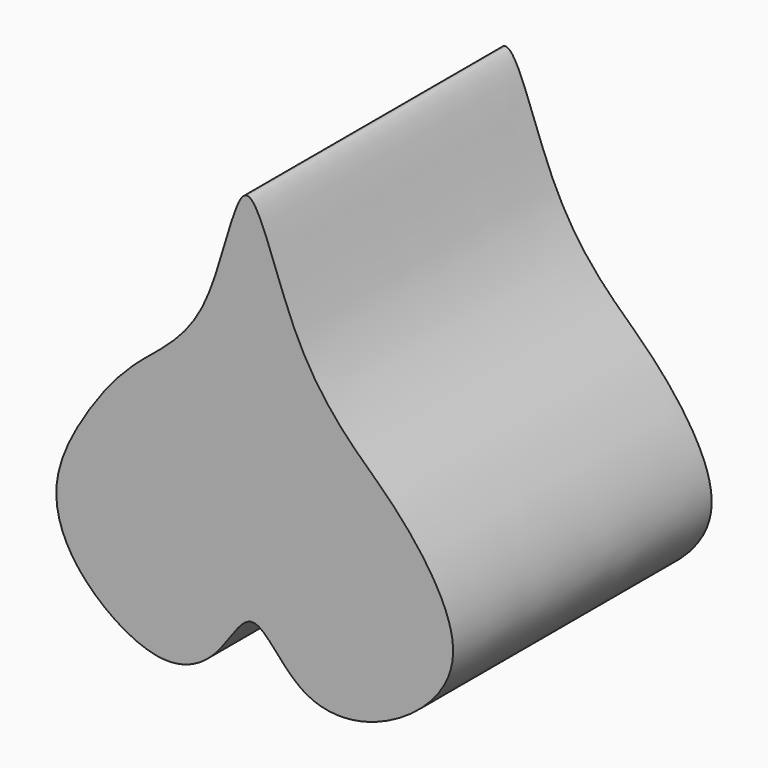
from build123d import *

# Parameters (mm, degrees)
F1_DEPTH = 2


with BuildPart() as f1:
    # F0 (on Front) → F1 (new body)
    with BuildSketch(Plane.XZ):
        with BuildLine():
            add(Edge.make_bspline(
                [(7.6541043818, 7.9737510532), (7.5737082016, 7.9624785716), (7.4551231094, 7.1658634311), (6.96093713, 6.8724758556), (6.6404656801, 6.4571754762), (6.416024624, 6.0050935564), (6.5809726383, 5.5533538035), (7.1138820679, 5.194278457), (7.4884278744, 5.3763510762), (7.6902948875, 5.8163475318), (7.9724745665, 5.2823308892), (8.5552124707, 5.3240347945), (9.1174640653, 5.8642051596), (8.6321085314, 6.5344352203), (8.3448640408, 6.7775928541), (7.9263182717, 7.2293584954), (7.7335142721, 7.9848852455), (7.6541043818, 7.9737510532)],
                knots=[0, 0, 0, 0, 0.0781655841, 0.1501343929, 0.2154068306, 0.2782217621, 0.3391602099, 0.4087507251, 0.4649794979, 0.5167701405, 0.5748439784, 0.6414901332, 0.7143250069, 0.7904593249, 0.847499689, 0.9227933411, 1, 1, 1, 1], degree=3))
        make_face()
    extrude(amount=F1_DEPTH)


solid = f1.part
